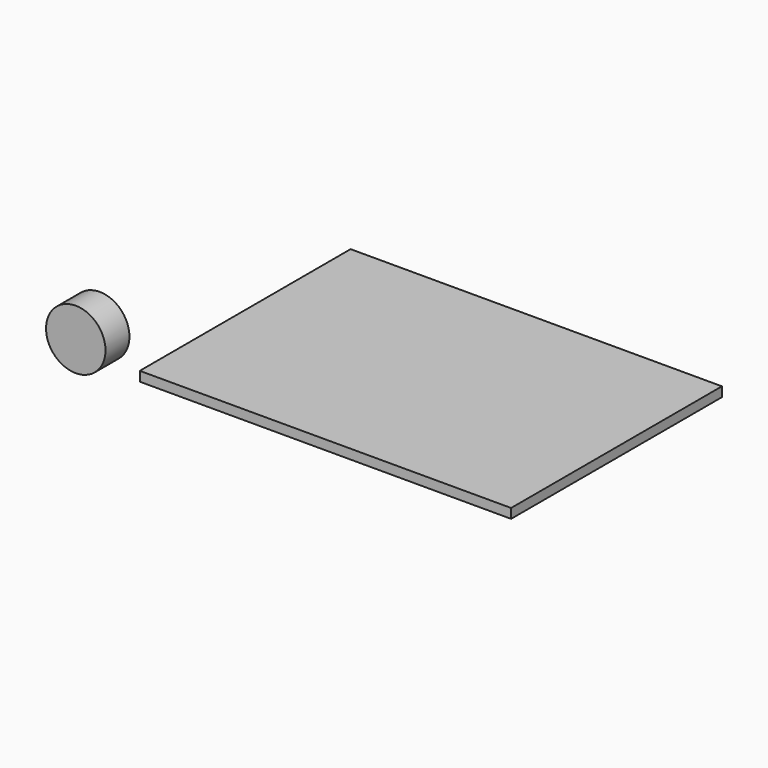
from build123d import *

# Parameters (mm, degrees)
F0_W     = 310
F0_H     = 220
F1_DEPTH = 8
F2_R     = 24.8201791444
F3_DEPTH = 25


with BuildPart() as f1:
    # F0 (on Top) → F1 (new body)
    with BuildSketch(Plane.XY):
        with Locations((155, 110)):
            Rectangle(F0_W, F0_H)
    extrude(amount=F1_DEPTH)


with BuildPart() as f3:
    # F2 (on Front) → F3 (new body)
    with BuildSketch(Plane.XZ):
        with Locations((-33.447265625, 30.3526576608)):
            Circle(F2_R)
    extrude(amount=F3_DEPTH)


solid = Compound([f1.part, f3.part])
